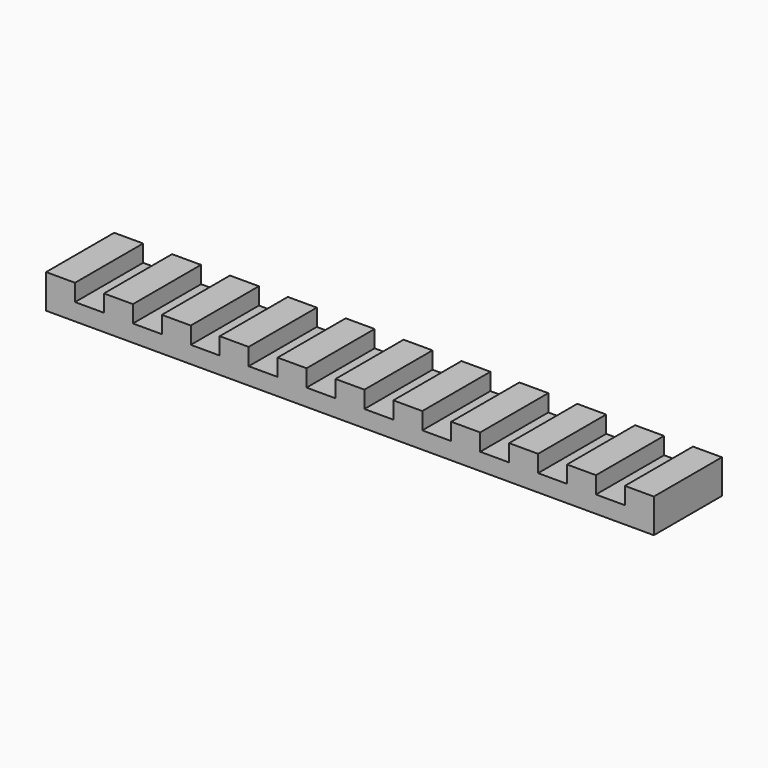
from build123d import *

# Parameters (mm, degrees)
F0_W     = 35.7
F0_H     = 2
F1_DEPTH = 5
F2_W     = 1.7
F2_H     = 1
F3_DEPTH = 5
F4_DEPTH = 5


with BuildPart() as f1:
    # F0 (on Front) → F1 (new body)
    with BuildSketch(Plane.XZ):
        with Locations((-17.85, 1)):
            Rectangle(F0_W, F0_H)
    extrude(amount=F1_DEPTH)

    # F2 (on face) → F3 (cut)
    with BuildSketch(Plane.XZ.offset(5)):
        with Locations((-33.15, 1.5)):
            Rectangle(F2_W, F2_H)
        with Locations((-29.75, 1.5)):
            Rectangle(F2_W, F2_H)
        with Locations((-26.35, 1.5)):
            Rectangle(F2_W, F2_H)
        with Locations((-22.95, 1.5)):
            Rectangle(F2_W, F2_H)
        with Locations((-19.55, 1.5)):
            Rectangle(F2_W, F2_H)
        with Locations((-16.15, 1.5)):
            Rectangle(F2_W, F2_H)
        with Locations((-12.75, 1.5)):
            Rectangle(F2_W, F2_H)
    extrude(amount=-F3_DEPTH, mode=Mode.SUBTRACT)

    # F2 (on face) → F4 (cut)
    with BuildSketch(Plane.XZ.offset(5)):
        with Locations((-9.35, 1.5)):
            Rectangle(F2_W, F2_H)
        with Locations((-5.95, 1.5)):
            Rectangle(F2_W, F2_H)
        with Locations((-2.55, 1.5)):
            Rectangle(F2_W, F2_H)
    extrude(amount=-F4_DEPTH, mode=Mode.SUBTRACT)


solid = f1.part
